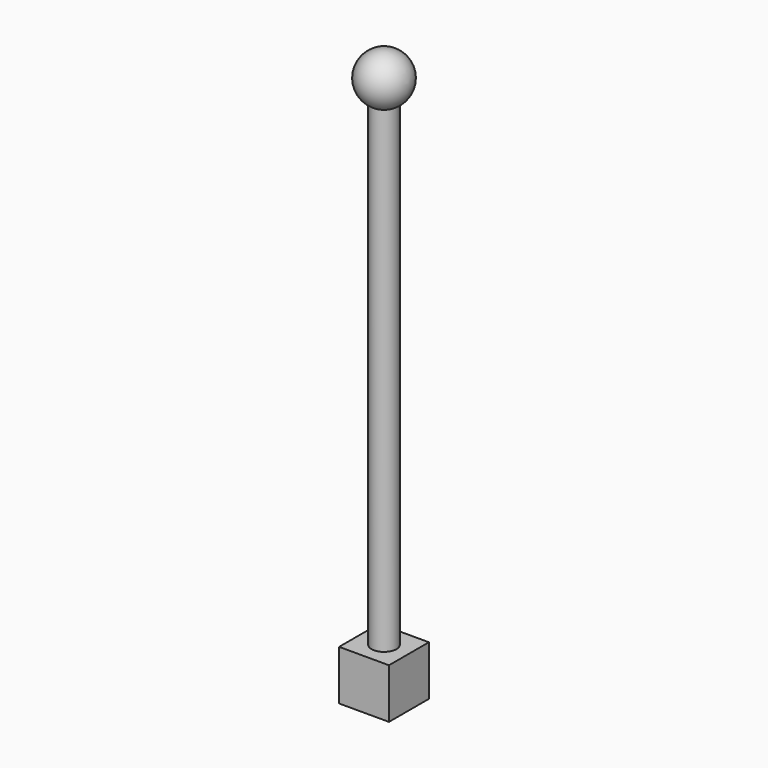
from build123d import *

# Parameters (mm, degrees)
CYLINDER_R     = 25
CYLINDER_DEPTH = 1000
CUBE_W         = 100
CUBE_H         = 100
CUBE_DEPTH     = 100


with BuildPart() as cylinder:
    # cylinder → cylinder (new body)
    with BuildSketch(Plane.XY.offset(100)):
        Circle(CYLINDER_R)
    extrude(amount=CYLINDER_DEPTH)


with BuildPart() as sphere:
    # sphere → sphere (revolve)
    with BuildSketch(Plane(origin=(0, 0, 1100), x_dir=(1, 0, 0), z_dir=(0, -1, 0))):
        with BuildLine():
            ThreePointArc((0, -50), (50, 0), (0, 50))
            Line((0, 50), (0, -50))
        make_face()
    revolve(axis=Axis((0, 0, 1100), (0, 0, 1)))


with BuildPart() as union:
    # cube → cube (new body)
    with BuildSketch(Plane(origin=(-50, -50, 0), x_dir=(1, 0, 0), z_dir=(0, 0, 1))):
        with Locations((50, 50)):
            Rectangle(CUBE_W, CUBE_H)
    extrude(amount=CUBE_DEPTH)

    # union: union cylinder, sphere
    add(cylinder.part)
    add(sphere.part)


solid = union.part
